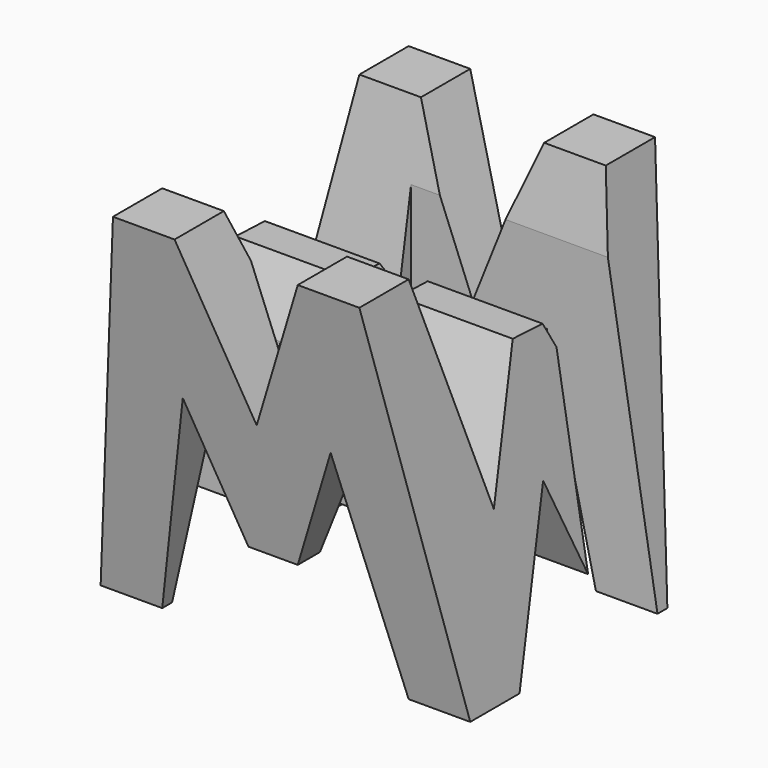
from build123d import *

# Parameters (mm, degrees)
F0_W      = 38.1
F0_H      = 38.1
F1_DEPTH  = 38.1
F6_DEPTH  = 38.1
F8_DEPTH  = 38.1
F9_W      = 25.4
F9_H      = 7.62
F10_DEPTH = 38.1


with BuildPart() as f1:
    # F0 (on Front) → F1 (new body)
    with BuildSketch(Plane.XZ):
        with Locations((19.05, 19.05)):
            Rectangle(F0_W, F0_H)
    extrude(amount=F1_DEPTH)

    # F5 (on offset) → F6 (cut)
    with BuildSketch(Plane.YZ.offset(38.1)):
        Polygon((-31.75, 0), (-38.1, 38.1), (-38.1, 0), align=None)
        Polygon((-19.05, 15.875), (-25.4, 0), (-12.7, 0), align=None)
        Polygon((0, 38.1), (-6.35, 0), (0, 0), align=None)
        Polygon((-6.35, 38.1), (-16.51, 38.1), (-16.51, 28.40746), (-10.16, 15.875), align=None)
        Polygon((-21.59, 38.1), (-31.75, 38.1), (-25.4, 15.875), (-20.336536, 28.53366), (-21.59, 28.575), align=None)
        Polygon((-16.51, 38.1), (-21.59, 38.1), (-21.59, 28.575), (-20.336536, 28.53366), (-20.32, 28.575), (-16.51, 28.40746), align=None)
    extrude(amount=-F6_DEPTH, mode=Mode.SUBTRACT)

    # F7 (on offset) → F8 (cut)
    with BuildSketch(Plane.XZ.offset(38.1)):
        Polygon((31.75, 38.1), (38.1, 0), (38.1, 38.1), align=None)
        Polygon((25.4, 38.1), (12.7, 38.1), (19.05, 22.225), align=None)
        Polygon((0, 38.1), (0, 0), (6.35, 38.1), align=None)
        Polygon((11.43, 22.225), (6.35, 0), (31.75, 0), (26.67, 22.225), (21.59, 9.525), (16.51, 9.525), align=None)
    extrude(amount=-F8_DEPTH, mode=Mode.SUBTRACT)

    # F9 (on offset) → F10 (cut)
    with BuildSketch(Plane.XY.offset(38.1)):
        with Locations((25.4, -11.43)):
            Rectangle(F9_W, F9_H)
        with Locations((12.7, -26.67)):
            Rectangle(F9_W, F9_H)
    extrude(amount=-F10_DEPTH, mode=Mode.SUBTRACT)


solid = f1.part
